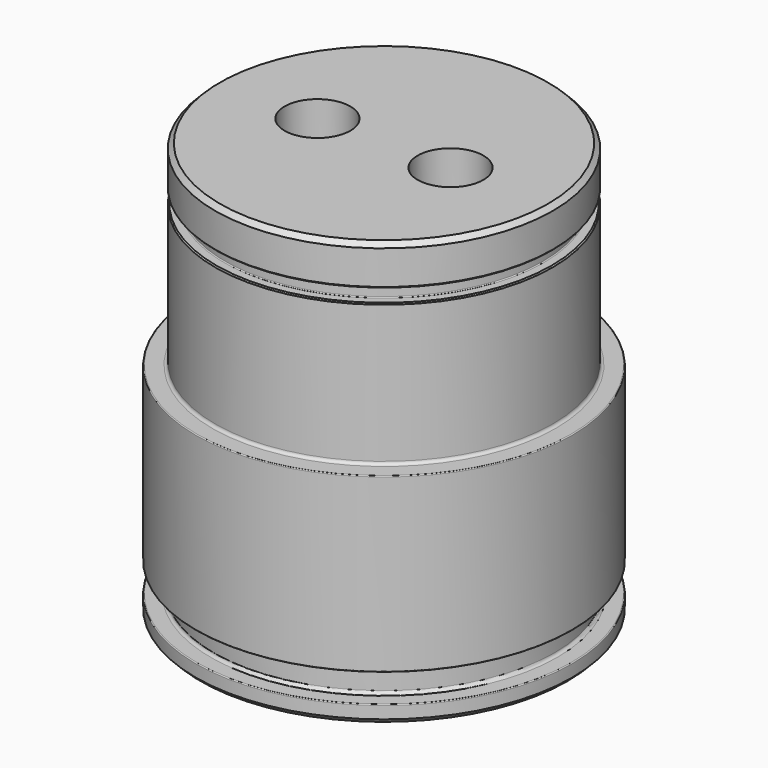
from build123d import *

# Parameters (mm, degrees)
F0_R            = 31.8
F1_DEPTH        = 37
F2_R            = 28.55
F3_DEPTH        = 33
F4_W            = 3.6
F4_H            = 4.8
F6_R            = 0.5
F7_R            = 0.15
F8_SIZE         = 0.8
F9_W            = 3
F9_H            = 2.25
F11_R           = 0.15
F12_SIZE        = 0.2
F14_D           = 7
F14_CBORE_D     = 11.1252
F14_CBORE_DEPTH = 15.10284


with BuildPart() as f1:
    # F0 (on Top) → F1 (new body)
    with BuildSketch(Plane.XY):
        Circle(F0_R)
    extrude(amount=F1_DEPTH)

    # F2 (on face) → F3 (join)
    with BuildSketch(Plane.XY.offset(37)):
        Circle(F2_R)
    extrude(amount=F3_DEPTH)

    # F4 (on Front) → F5 (revolve, cut)
    with BuildSketch(Plane.XZ):
        with Locations((30.6, 5.4)):
            Rectangle(F4_W, F4_H)
    revolve(axis=Axis((0, 0, 0), (0, 0, -1)), mode=Mode.SUBTRACT)

    # F6
    f6_edges = [f1.edges().sort_by_distance(p)[0] for p in [
        (-28.8, 0, 7.8),
        (-28.8, 0, 3),
        (-28.55, 0, 37),
    ]]
    fillet(f6_edges, radius=F6_R)

    # F7
    f7_edges = [f1.edges().sort_by_distance(p)[0] for p in [
        (-31.8, 0, 7.8),
        (-31.8, 0, 3),
        (-31.8, 0, 37),
    ]]
    fillet(f7_edges, radius=F7_R)

    # F8
    f8_edges = [f1.edges().sort_by_distance(p)[0] for p in [
        (-31.8, 0, 0),
        (-28.55, 0, 70),
    ]]
    chamfer(f8_edges, length=F8_SIZE)

    # F9 (on Front) → F10 (revolve, cut)
    with BuildSketch(Plane.XZ):
        with Locations((28.37, 62.125)):
            Rectangle(F9_W, F9_H)
    revolve(axis=Axis((0, 0, 37), (0, 0, -1)), mode=Mode.SUBTRACT)

    # F11
    f11_edges = [f1.edges().sort_by_distance(p)[0] for p in [
        (-26.87, 0, 63.25),
        (-26.87, 0, 61),
    ]]
    fillet(f11_edges, radius=F11_R)

    # F12
    f12_edges = [f1.edges().sort_by_distance(p)[0] for p in [
        (-28.55, 0, 61),
        (-28.55, 0, 63.25),
    ]]
    chamfer(f12_edges, length=F12_SIZE)

    # F14 (through all)
    with Locations(Plane.XY.offset(70)):
        with Locations((-11.25, 0), (11.2500013784, 0)):
            CounterBoreHole(F14_D / 2, F14_CBORE_D / 2, F14_CBORE_DEPTH)


solid = f1.part
